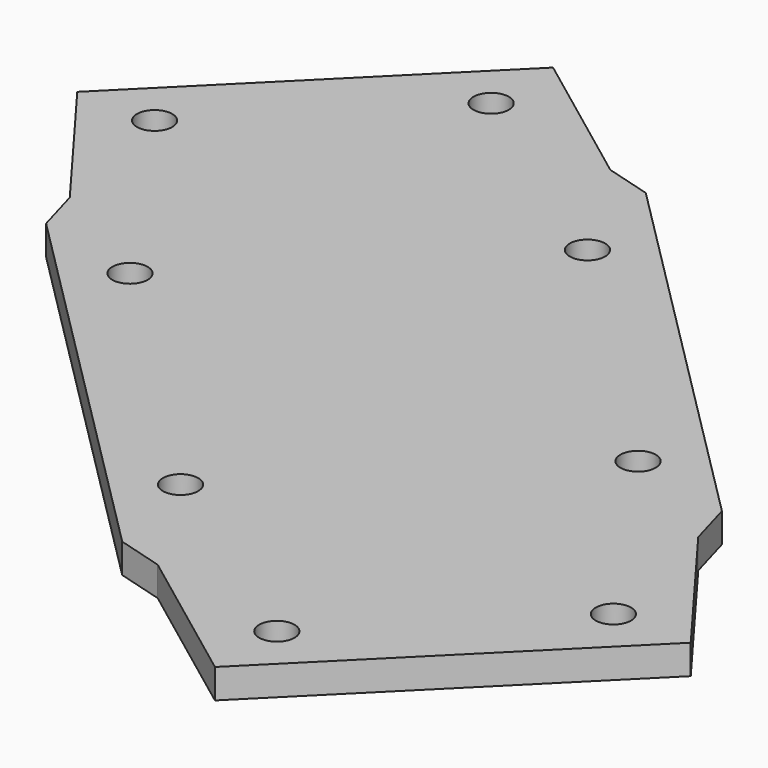
from build123d import *

# Parameters (mm, degrees)
F0_R     = 1.5
F1_DEPTH = 2.5


with BuildPart() as f1:
    # F0 (on Top) → F1 (new body)
    with BuildSketch(Plane.XY):
        Polygon((-24.927709, 2.481071), (7.530662, -30.014294), (11.431097, -31.130232), (23.566268, -40.223594), (34.787399, -29.015238), (46.00853, -17.806882), (36.928996, -5.66136), (35.817502, -1.759657), (3.359131, 30.735708), (-0.541304, 31.851646), (-12.676475, 40.945009), (-23.897606, 29.736653), (-35.118737, 18.528296), (-26.039203, 6.382775), align=None)
        with Locations((5.432613, -21.206046)):
            Circle(F0_R, mode=Mode.SUBTRACT)
        with Locations((23.566268, -33.655995)):
            Circle(F0_R, mode=Mode.SUBTRACT)
        with Locations((39.440935, -17.799401)):
            Circle(F0_R, mode=Mode.SUBTRACT)
        with Locations((27.01165, 0.348424)):
            Circle(F0_R, mode=Mode.SUBTRACT)
        with Locations((-16.121857, 0.372991)):
            Circle(F0_R, mode=Mode.SUBTRACT)
        with Locations((-28.551142, 18.520815)):
            Circle(F0_R, mode=Mode.SUBTRACT)
        with Locations((-12.676475, 34.37741)):
            Circle(F0_R, mode=Mode.SUBTRACT)
        with Locations((5.45718, 21.927461)):
            Circle(F0_R, mode=Mode.SUBTRACT)
    extrude(amount=F1_DEPTH)


solid = f1.part
